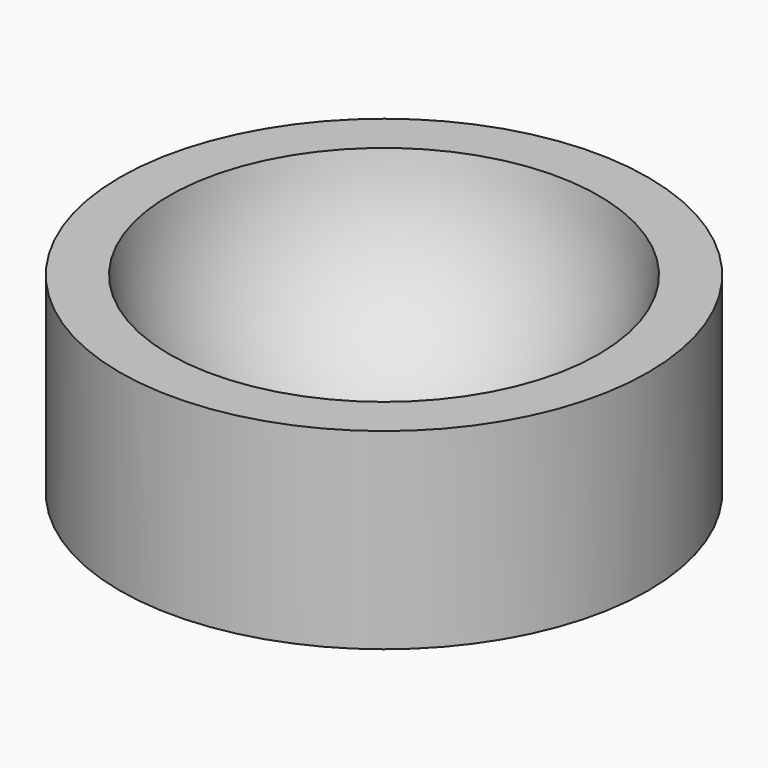
from build123d import *

# Parameters (mm, degrees)
CYLINDER006_R     = 2.75
CYLINDER006_DEPTH = 2


with BuildPart() as sphere005:
    # Sphere005 → Sphere005 (revolve)
    with BuildSketch(Plane(origin=(-6.25, 0, 15.25), x_dir=(1, 0, 0), z_dir=(0, -1, 0))):
        with BuildLine():
            ThreePointArc((0, -2.25), (2.25, 0), (0, 2.25))
            Line((0, 2.25), (0, -2.25))
        make_face()
    revolve(axis=Axis((-6.25, 0, 15.25), (0, 0, 1)))


with BuildPart() as cut003:
    # Cylinder006 → Cylinder006 (new body)
    with BuildSketch(Plane(origin=(-6.25, 0, 13), x_dir=(1, 0, 0), z_dir=(0, 0, 1))):
        Circle(CYLINDER006_R)
    extrude(amount=CYLINDER006_DEPTH)

    # Cut003: cut Sphere005
    add(sphere005.part, mode=Mode.SUBTRACT)


solid = cut003.part
